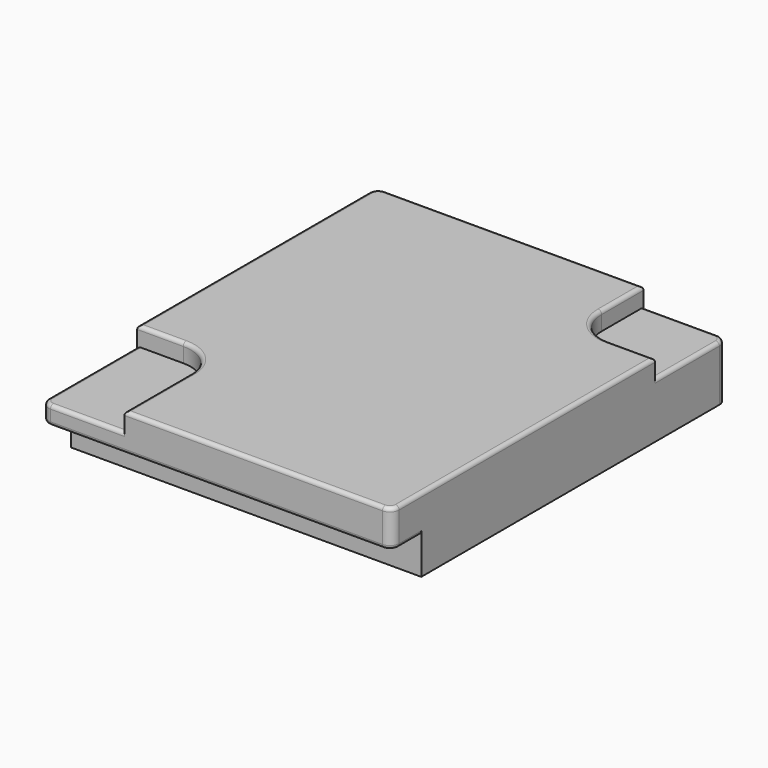
from build123d import *

# Parameters (mm, degrees)
SKETCH005_W     = 9.5
SKETCH005_H     = 11.35
PAD002_DEPTH    = 2
SKETCH006_W     = 9.5
SKETCH006_H     = 1
POCKET_DEPTH    = 1
POCKET002_DEPTH = 0.5
FILLET008_R     = 0.25
FILLET009_R     = 0.1


with BuildPart() as part:
    # Sketch005 → Pad002 (new body)
    with BuildSketch(Plane.XY.offset(5.5)):
        with Locations((0, -0.825)):
            Rectangle(SKETCH005_W, SKETCH005_H)
    extrude(amount=PAD002_DEPTH)

    # Sketch006 → Pocket (cut)
    with BuildSketch(Plane(origin=(0, -6.5, 5.5), x_dir=(1, 0, 0), z_dir=(0, -1, 0))):
        with Locations((0, 0.5)):
            Rectangle(SKETCH006_W, SKETCH006_H)
    extrude(amount=-POCKET_DEPTH, mode=Mode.SUBTRACT)

    # Sketch008 → Pocket002 (cut)
    with BuildSketch(Plane.XY.offset(7.5)):
        with BuildLine():
            Line((4.75, 4.85), (2.5, 4.85))
            Line((2.5, 4.85), (2.5, 3.425))
            ThreePointArc((2.5, 3.425), (2.792893, 2.717893), (3.5, 2.425))
            Line((3.5, 2.425), (4.75, 2.425))
            Line((4.75, 2.425), (4.75, 4.85))
        make_face()
        with BuildLine():
            Line((-4.75, -6.5), (-2.5, -6.5))
            Line((-2.5, -6.5), (-2.5, -4.25))
            ThreePointArc((-2.5, -4.25), (-2.792893, -3.542893), (-3.5, -3.25))
            Line((-3.5, -3.25), (-4.75, -3.25))
            Line((-4.75, -3.25), (-4.75, -6.5))
        make_face()
    extrude(amount=-POCKET002_DEPTH, mode=Mode.SUBTRACT)

    # Fillet008
    fillet008_edges = [part.edges().sort_by_distance(p)[0] for p in [
        (-4.75, -6.5, 6.75),
        (4.75, -6.5, 7),
        (-4.75, 4.85, 6.5),
        (4.75, 4.85, 6.25),
    ]]
    fillet(fillet008_edges, radius=FILLET008_R)

    # Fillet009
    fillet009_edges = [part.edges().sort_by_distance(p)[0] for p in [
        (4.75, -1.9125, 7.5),
        (4.125, 2.425, 7.5),
        (2.5, 4.1375, 7.5),
        (-1, 4.85, 7.5),
        (-4.75, 0.675, 7.5),
        (-4.125, -3.25, 7.5),
        (-2.5, -5.375, 7.5),
        (1, -6.5, 7.5),
        (0, -6.5, 6.5),
        (-3.5, -6.5, 7),
        (-4.75, -4.75, 7),
        (3.5, 4.85, 7),
        (4.75, 3.5125, 7),
    ]]
    fillet(fillet009_edges, radius=FILLET009_R)


solid = part.part
